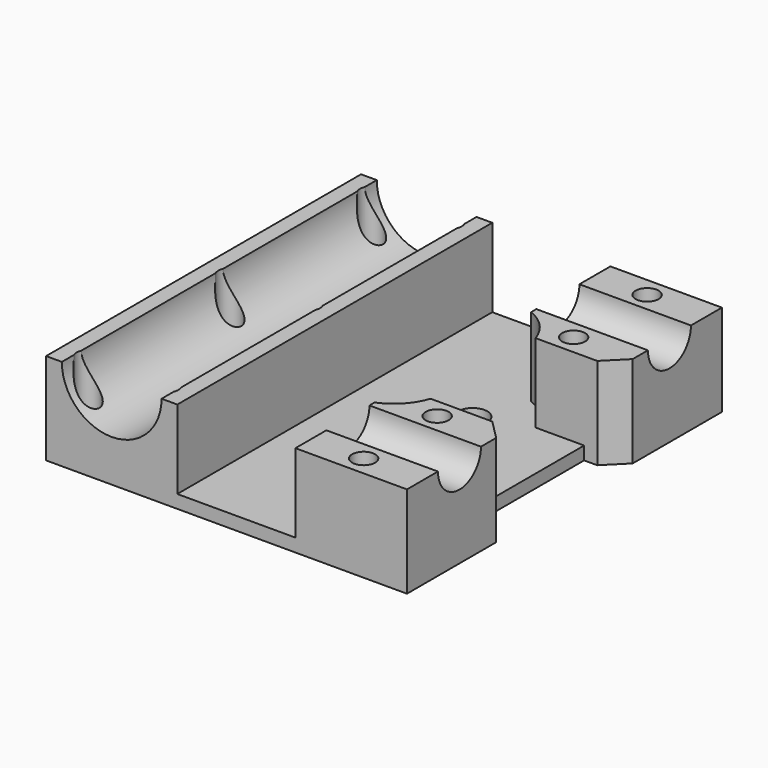
from build123d import *

# Parameters (mm, degrees)
SKETCH_W        = 55
SKETCH_H        = 60
PAD_DEPTH       = 14
SKETCH001_R     = 7.6
POCKET_DEPTH    = 60.001
SKETCH002_R     = 1.75
POCKET001_DEPTH = 14.001
POCKET002_DEPTH = 12
SKETCH004_R     = 2.25
POCKET003_DEPTH = 14.001
SKETCH008_R     = 4.1
POCKET005_DEPTH = 20
SKETCH010_W     = 20
SKETCH010_H     = 25
POCKET006_DEPTH = 5
CHAMFER_SIZE    = 3
SKETCH011_R     = 2.9
POCKET007_DEPTH = 3.5


with BuildPart() as part:
    # Sketch → Pad (new body)
    with BuildSketch(Plane.XY):
        with Locations((17.5, 0)):
            Rectangle(SKETCH_W, SKETCH_H)
    extrude(amount=PAD_DEPTH)

    # Sketch001 → Pocket (cut, through all)
    with BuildSketch(Plane.XZ.offset(30)):
        with Locations((0, 14)):
            Circle(SKETCH001_R)
    extrude(amount=-POCKET_DEPTH, mode=Mode.SUBTRACT)

    # Sketch002 → Pocket001 (cut, through all)
    with BuildSketch(Plane.XY.offset(14)):
        with Locations((-6, 27)):
            Circle(SKETCH002_R)
        with Locations((36, 27)):
            Circle(SKETCH002_R)
        with Locations((-6, -27)):
            Circle(SKETCH002_R)
        with Locations((36, -27)):
            Circle(SKETCH002_R)
        with Locations((6, 27)):
            Circle(SKETCH002_R)
        with Locations((6, -27)):
            Circle(SKETCH002_R)
        with Locations((6, 0)):
            Circle(SKETCH002_R)
        with Locations((-6, 0)):
            Circle(SKETCH002_R)
        with Locations((36, -13)):
            Circle(SKETCH002_R)
        with Locations((36, 13)):
            Circle(SKETCH002_R)
    extrude(amount=-POCKET001_DEPTH, mode=Mode.SUBTRACT)

    # Sketch003 → Pocket002 (cut)
    with BuildSketch(Plane.XY.offset(14)):
        with BuildLine():
            Line((10, 35), (10, -35))
            Line((10, -35), (28, -35))
            Line((28, -35), (28, -14.916198))
            ThreePointArc((28, -14.916198), (30.841983, -12.965458), (32.599342, -10))
            Line((32.599342, -10), (52.599342, -10))
            Line((52.599342, -10), (52.599342, 10))
            Line((52.599342, 10), (32.599342, 10))
            ThreePointArc((32.599342, 10), (30.841983, 12.965458), (28, 14.916198))
            Line((28, 14.916198), (28, 35))
            Line((28, 35), (10, 35))
        make_face()
    extrude(amount=-POCKET002_DEPTH, mode=Mode.SUBTRACT)

    # Sketch004 → Pocket003 (cut, through all)
    with BuildSketch(Plane(origin=(0, 0, 0), x_dir=(1, 0, 0), z_dir=(0, 0, -1))):
        with Locations((25, 7.5)):
            Circle(SKETCH004_R)
        with Locations((25, -7.5)):
            Circle(SKETCH004_R)
    extrude(amount=-POCKET003_DEPTH, mode=Mode.SUBTRACT)

    # Sketch008 → Pocket005 (cut)
    with BuildSketch(Plane.YZ.offset(45)):
        with Locations((-20, 14)):
            Circle(SKETCH008_R)
        with Locations((20, 14)):
            Circle(SKETCH008_R)
    extrude(amount=-POCKET005_DEPTH, mode=Mode.SUBTRACT)

    # Sketch010 → Pocket006 (cut)
    with BuildSketch(Plane.YZ.offset(45)):
        with Locations((0, 5.473744)):
            Rectangle(SKETCH010_W, SKETCH010_H)
    extrude(amount=-POCKET006_DEPTH, mode=Mode.SUBTRACT)

    # Chamfer
    chamfer_edges = [part.edges().sort_by_distance(p)[0] for p in [
        (45, -10, 8),
        (45, 10, 8),
    ]]
    chamfer(chamfer_edges, length=CHAMFER_SIZE)

    # Sketch011 → Pocket007 (cut)
    with BuildSketch(Plane(origin=(0, 0, 0), x_dir=(1, 0, 0), z_dir=(0, 0, -1))):
        with Locations((36, 27)):
            Circle(SKETCH011_R)
        with Locations((36, 13)):
            Circle(SKETCH011_R)
        with Locations((36, -13)):
            Circle(SKETCH011_R)
        with Locations((36, -27)):
            Circle(SKETCH011_R)
        with Locations((-6, 27)):
            Circle(SKETCH011_R)
        with Locations((6, 27)):
            Circle(SKETCH011_R)
        with Locations((-6, 0)):
            Circle(SKETCH011_R)
        with Locations((6, 0)):
            Circle(SKETCH011_R)
        with Locations((-6, -27)):
            Circle(SKETCH011_R)
        with Locations((6, -27)):
            Circle(SKETCH011_R)
    extrude(amount=-POCKET007_DEPTH, mode=Mode.SUBTRACT)


solid = part.part
